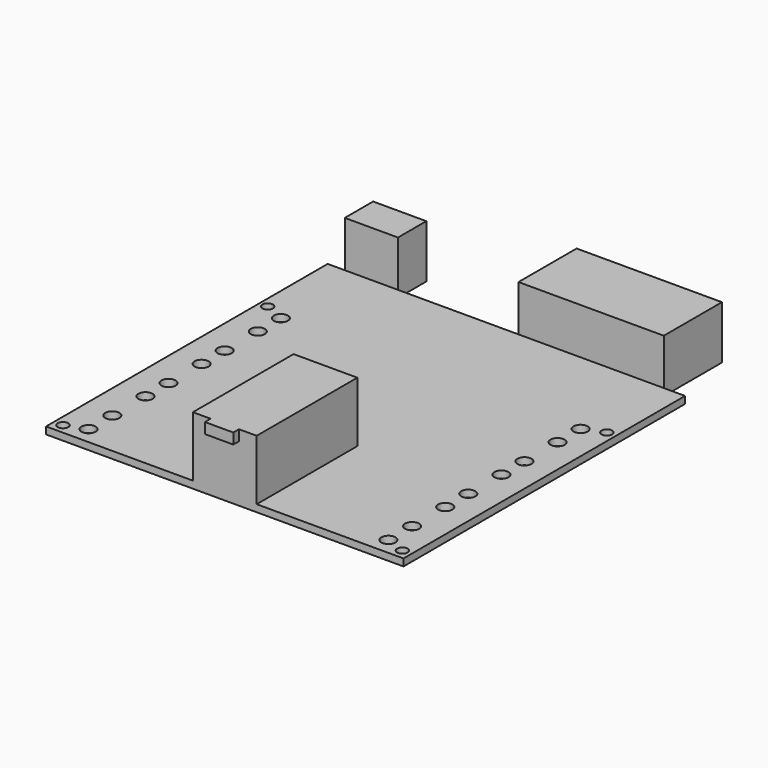
from build123d import *

# Parameters (mm, degrees)
F0_W          = 100.84
F0_H          = 99.31
F0_R          = 1.5
F0_R_2        = 2
F1_DEPTH      = 2
F3_W          = 15
F3_H          = 10
F3_W_2        = 41
F3_H_2        = 20.5
F4_DEPTH      = 13
F4_DEPTH_BACK = 2
F5_W          = 18
F5_H          = 35.5
F6_DEPTH      = 17
F8_W          = 8
F8_H          = 3
F9_DEPTH      = 2


with BuildPart() as f1:
    # F0 (on Top) → F1 (new body)
    with BuildSketch(Plane.XY):
        Rectangle(F0_W, F0_H)
        with Locations((-47.88, -46.865)):
            Circle(F0_R, mode=Mode.SUBTRACT)
        with Locations((-42.29, -44.825)):
            Circle(F0_R_2, mode=Mode.SUBTRACT)
        with Locations((-42.29, -36.445)):
            Circle(F0_R_2, mode=Mode.SUBTRACT)
        with Locations((-42.29, -24.765)):
            Circle(F0_R_2, mode=Mode.SUBTRACT)
        with Locations((-42.29, -16.635)):
            Circle(F0_R_2, mode=Mode.SUBTRACT)
        with Locations((-42.29, -4.955)):
            Circle(F0_R_2, mode=Mode.SUBTRACT)
        with Locations((42.29, -44.825)):
            Circle(F0_R_2, mode=Mode.SUBTRACT)
        with Locations((47.88, -46.865)):
            Circle(F0_R, mode=Mode.SUBTRACT)
        with Locations((42.29, -36.445)):
            Circle(F0_R_2, mode=Mode.SUBTRACT)
        with Locations((42.29, -24.765)):
            Circle(F0_R_2, mode=Mode.SUBTRACT)
        with Locations((42.29, -16.635)):
            Circle(F0_R_2, mode=Mode.SUBTRACT)
        with Locations((42.29, -4.955)):
            Circle(F0_R_2, mode=Mode.SUBTRACT)
        with Locations((-42.29, 3.175)):
            Circle(F0_R_2, mode=Mode.SUBTRACT)
        with Locations((-42.29, 14.855)):
            Circle(F0_R_2, mode=Mode.SUBTRACT)
        with Locations((-42.29, 22.985)):
            Circle(F0_R_2, mode=Mode.SUBTRACT)
        with Locations((-48.06, 25.525)):
            Circle(F0_R, mode=Mode.SUBTRACT)
        with Locations((42.29, 3.175)):
            Circle(F0_R_2, mode=Mode.SUBTRACT)
        with Locations((42.29, 14.855)):
            Circle(F0_R_2, mode=Mode.SUBTRACT)
        with Locations((42.29, 22.985)):
            Circle(F0_R_2, mode=Mode.SUBTRACT)
        with Locations((47.88, 25.275)):
            Circle(F0_R, mode=Mode.SUBTRACT)
    extrude(amount=F1_DEPTH)

    # F3 (on offset) → F4 (join, two sides)
    with BuildSketch(Plane.XY.offset(2)) as f4_sk:
        with Locations((-38.09, 54.655)):
            Rectangle(F3_W, F3_H)
        with Locations((23.92, 59.905)):
            Rectangle(F3_W_2, F3_H_2)
    extrude(amount=F4_DEPTH)
    extrude(f4_sk.sketch, amount=-F4_DEPTH_BACK)

    # F5 (on offset) → F6 (join)
    with BuildSketch(Plane.XY.offset(2)):
        with Locations((0, -31.905)):
            Rectangle(F5_W, F5_H)
    extrude(amount=F6_DEPTH)

    # F8 (on offset) → F9 (join)
    with BuildSketch(Plane.XZ.offset(49.655)):
        with Locations((0, 17.5)):
            Rectangle(F8_W, F8_H)
    extrude(amount=F9_DEPTH)


solid = f1.part
